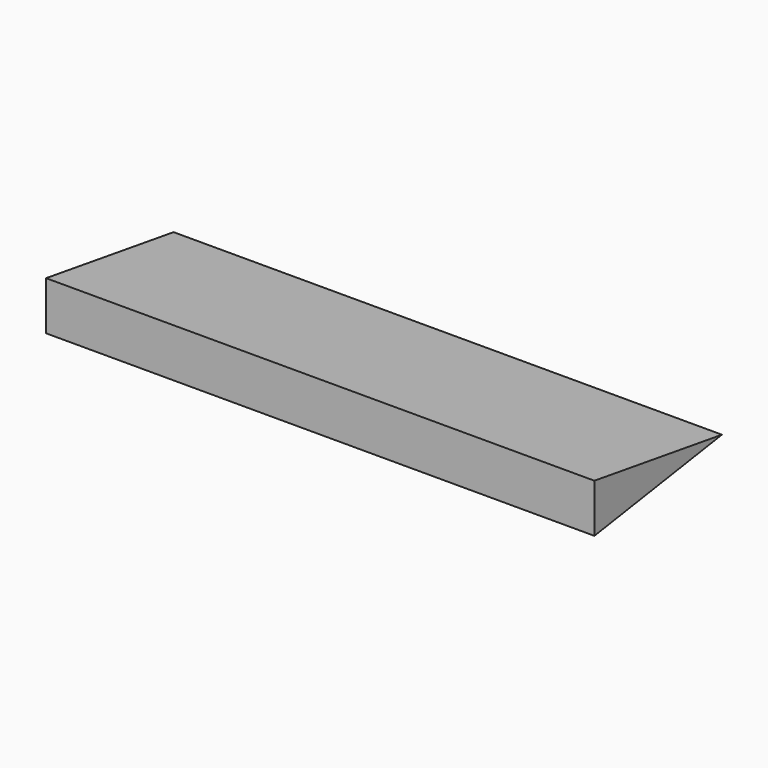
from build123d import *

# Parameters (mm, degrees)
F1_DEPTH = 54.61


with BuildPart() as f1:
    # F0 (on Right) → F1 (new body, symmetric)
    with BuildSketch(Plane.YZ):
        Polygon((288.9394617585, 0), (257.1894617585, 4.8347278773), (257.1894617585, -4.8347278773), align=None)
    extrude(amount=F1_DEPTH, both=True)


solid = f1.part
